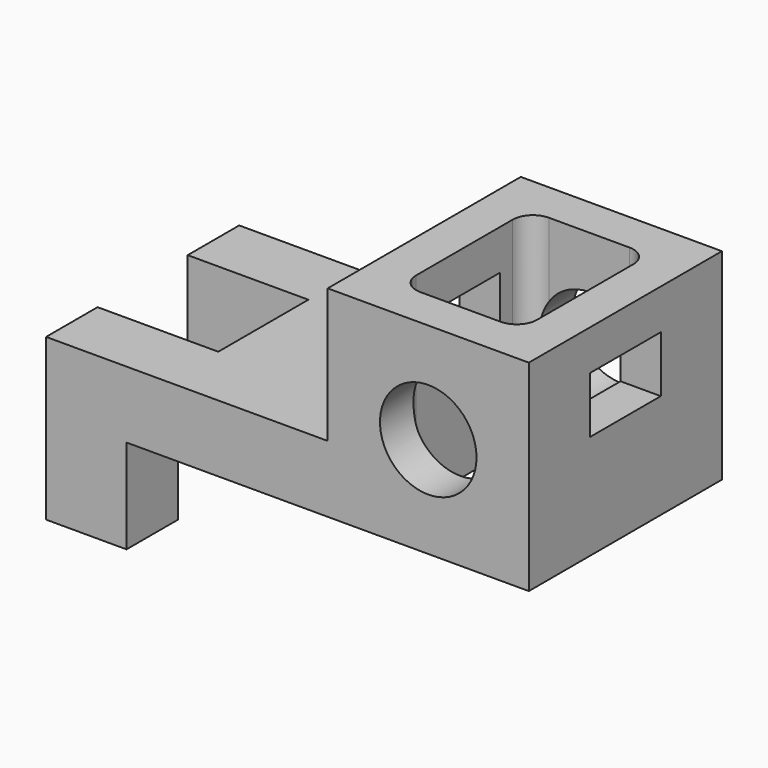
from build123d import *

# Parameters (mm, degrees)
F1_DEPTH = 60
F2_R     = 12
F3_DEPTH = 60.001
F5_DEPTH = 40.001
F7_DEPTH = 73.386132
F8_W     = 22
F8_H     = 14
F9_DEPTH = 120.001


with BuildPart() as f1:
    # F0 (on Front) → F1 (new body)
    with BuildSketch(Plane.XZ):
        Polygon((-25, -8.385132), (-25, -25), (25, -25), (25, 25), (-25, 25), align=None)
        Polygon((-75, -25), (-25, -25), (-25, -8.385132), (-95, -8.385132), (-95, -48.385132), (-75, -48.385132), align=None)
    extrude(amount=F1_DEPTH)

    # F2 (on face) → F3 (cut, through all)
    with BuildSketch(Plane.XZ.offset(60)):
        Circle(F2_R)
    extrude(amount=-F3_DEPTH, mode=Mode.SUBTRACT)

    # F4 (on face) → F5 (cut, through all)
    with BuildSketch(Plane.XY.offset(-8.385132)):
        Polygon((-95, -44), (-65, -44), (-65, -16), (-125, -16), (-125, -44), align=None)
        with BuildLine():
            ThreePointArc((-15, -45), (-13.535534, -48.535534), (-10, -50))
            Line((-10, -50), (10, -50))
            ThreePointArc((10, -50), (13.535534, -48.535534), (15, -45))
            Line((15, -45), (15, -15))
            ThreePointArc((15, -15), (13.535534, -11.464466), (10, -10))
            Line((10, -10), (-10, -10))
            ThreePointArc((-10, -10), (-13.535534, -11.464466), (-15, -15))
            Line((-15, -15), (-15, -45))
        make_face()
    extrude(amount=-F5_DEPTH, mode=Mode.SUBTRACT)

    # F6 (on face) → F7 (cut, through all)
    with BuildSketch(Plane.XY.offset(25)):
        with BuildLine():
            ThreePointArc((-15, -45), (-13.535534, -48.535534), (-10, -50))
            Line((-10, -50), (10, -50))
            ThreePointArc((10, -50), (13.535534, -48.535534), (15, -45))
            Line((15, -45), (15, -15))
            ThreePointArc((15, -15), (13.535534, -11.464466), (10, -10))
            Line((10, -10), (-10, -10))
            ThreePointArc((-10, -10), (-13.535534, -11.464466), (-15, -15))
            Line((-15, -15), (-15, -45))
        make_face()
    extrude(amount=-F7_DEPTH, mode=Mode.SUBTRACT)

    # F8 (on face) → F9 (cut, through all)
    with BuildSketch(Plane.YZ.offset(25)):
        with Locations((-30, 8)):
            Rectangle(F8_W, F8_H)
    extrude(amount=-F9_DEPTH, mode=Mode.SUBTRACT)


solid = f1.part
